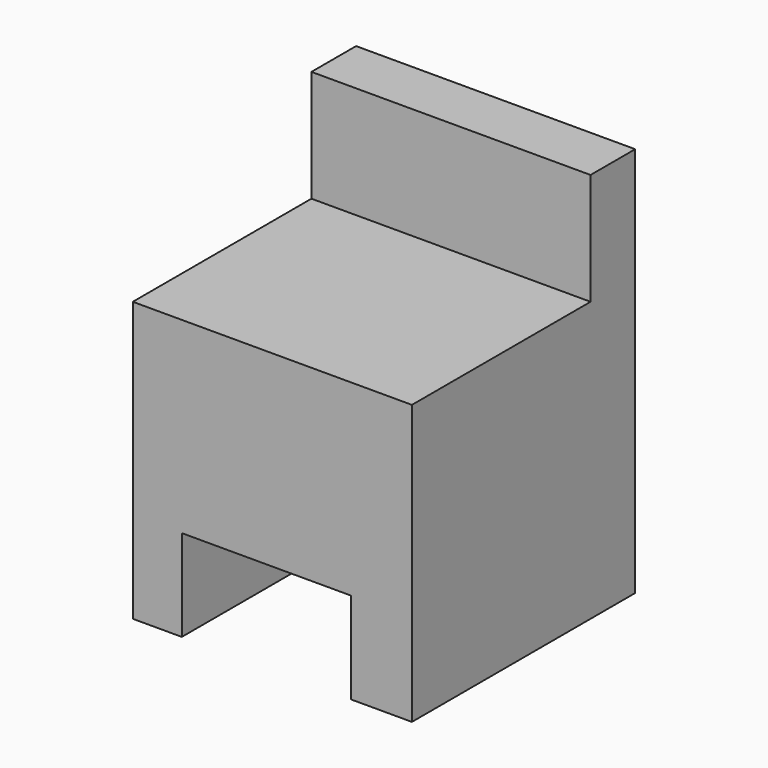
from build123d import *

# Parameters (mm, degrees)
F0_W     = 100
F0_H     = 100
F1_DEPTH = 100
F2_W     = 100
F2_H     = 20
F3_DEPTH = 40
F4_W     = 60.561549
F4_H     = 32.747179
F5_DEPTH = 100.001


with BuildPart() as f1:
    # F0 (on Top) → F1 (new body)
    with BuildSketch(Plane.XY):
        Rectangle(F0_W, F0_H)
    extrude(amount=F1_DEPTH)

    # F2 (on face) → F3 (join)
    with BuildSketch(Plane.XY.offset(100)):
        with Locations((0, 40)):
            Rectangle(F2_W, F2_H)
    extrude(amount=F3_DEPTH)

    # F4 (on face) → F5 (cut, through all)
    with BuildSketch(Plane.XZ.offset(50)):
        with Locations((-2.157872, 16.373589)):
            Rectangle(F4_W, F4_H)
    extrude(amount=-F5_DEPTH, mode=Mode.SUBTRACT)


solid = f1.part
